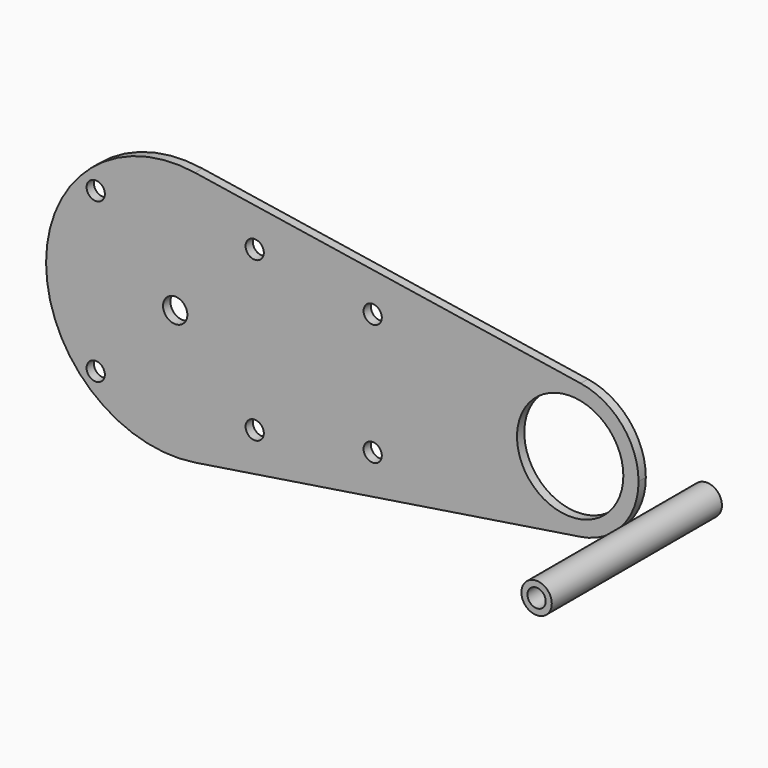
from build123d import *

# Parameters (mm, degrees)
F0_R     = 17.5
F0_R_2   = 3
F0_R_3   = 4
F1_DEPTH = 3
F2_R     = 5
F2_R_2   = 3
F3_DEPTH = 70


with BuildPart() as f1:
    # F0 (on Front) → F1 (new body)
    with BuildSketch(Plane.XZ):
        with BuildLine():
            ThreePointArc((3.461538, -22.232133), (17.089977, -14.634982), (22.5, 0))
            ThreePointArc((22.5, 0), (17.089977, 14.634982), (3.461538, 22.232133))
            ThreePointArc((3.461538, 22.232133), (-22.5, 0), (3.461538, -22.232133))
        make_face()
        Circle(F0_R, mode=Mode.SUBTRACT)
        with BuildLine():
            ThreePointArc((3.461538, -22.232133), (-22.5, 0), (3.461538, 22.232133))
            Line((3.461538, 22.232133), (-123.461538, 41.99403))
            ThreePointArc((-123.461538, 41.99403), (-97.718933, 27.643855), (-87.5, 0))
            ThreePointArc((-87.5, 0), (-97.718933, -27.643855), (-123.461538, -41.99403))
            Line((-123.461538, -41.99403), (3.461538, -22.232133))
        make_face()
        with Locations((-65, -20)):
            Circle(F0_R_2, mode=Mode.SUBTRACT)
        with Locations((-65, 20)):
            Circle(F0_R_2, mode=Mode.SUBTRACT)
        with BuildLine():
            ThreePointArc((-87.5, 0), (-97.718933, 27.643855), (-123.461538, 41.99403))
            ThreePointArc((-123.461538, 41.99403), (-172.5, 0), (-123.461538, -41.99403))
            ThreePointArc((-123.461538, -41.99403), (-97.718933, -27.643855), (-87.5, 0))
        make_face()
        with Locations((-156.162951, -26.162951)):
            Circle(F0_R_2, mode=Mode.SUBTRACT)
        with Locations((-103.837049, -26.162951)):
            Circle(F0_R_2, mode=Mode.SUBTRACT)
        with Locations((-130, 0)):
            Circle(F0_R_3, mode=Mode.SUBTRACT)
        with Locations((-156.162951, 26.162951)):
            Circle(F0_R_2, mode=Mode.SUBTRACT)
        with Locations((-103.837049, 26.162951)):
            Circle(F0_R_2, mode=Mode.SUBTRACT)
    extrude(amount=F1_DEPTH)


with BuildPart() as f3:
    # F2 (on Front) → F3 (new body)
    with BuildSketch(Plane.XZ):
        with Locations((42.546024, 0)):
            Circle(F2_R)
        with Locations((42.546024, 0)):
            Circle(F2_R_2, mode=Mode.SUBTRACT)
    extrude(amount=F3_DEPTH)


solid = Compound([f1.part, f3.part])
